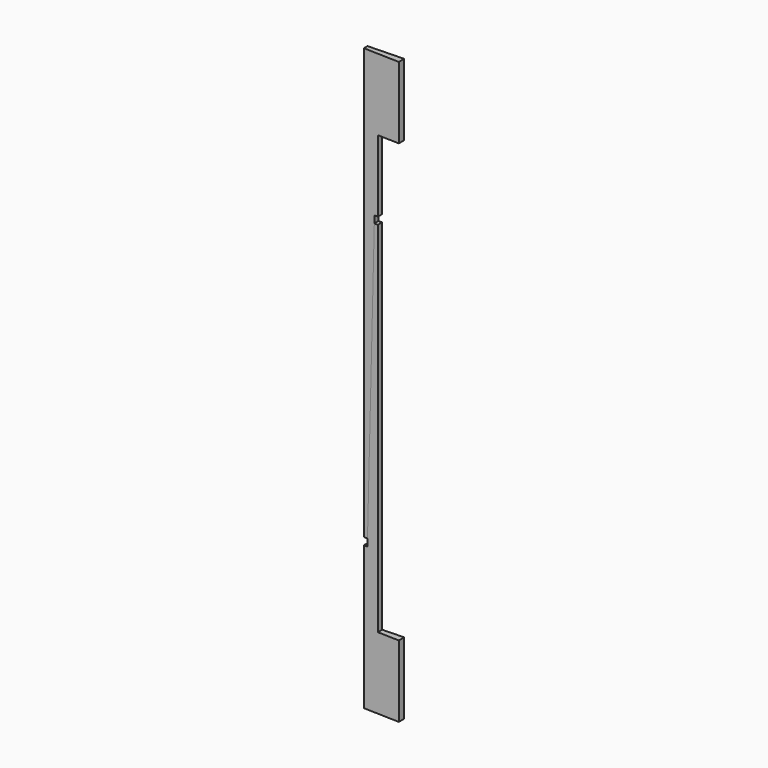
from build123d import *

# Parameters (mm, degrees)
F1_ANGLE = 3.6
F2_ANGLE = 3.6


with BuildPart() as f1:
    # F0 (on Front) → F1 (revolve, symmetric)
    with BuildSketch(Plane.XZ) as f1_sk:
        Polygon((100, 210), (105.25, 210), (115, 600), (115.25, 610), (120, 610), (120, 710), (150, 710), (150, 810), (100, 810), align=None)
    revolve(axis=Axis((0, 0, 405), (0, 0, 1)), revolution_arc=F1_ANGLE / 2)
    revolve(f1_sk.sketch, axis=Axis((0, 0, 405), (0, 0, -1)), revolution_arc=F1_ANGLE / 2)


with BuildPart() as f2:
    # F0 (on Front) → F2 (revolve, symmetric)
    with BuildSketch(Plane.XZ) as f2_sk:
        Polygon((100, 200), (100, 0), (150, 0), (150, 100), (120, 100), (120, 600), (115, 600), (105.25, 210), (105, 200), align=None)
    revolve(axis=Axis((0, 0, 405), (0, 0, 1)), revolution_arc=F2_ANGLE / 2)
    revolve(f2_sk.sketch, axis=Axis((0, 0, 405), (0, 0, -1)), revolution_arc=F2_ANGLE / 2)


solid = Compound([f1.part, f2.part])
